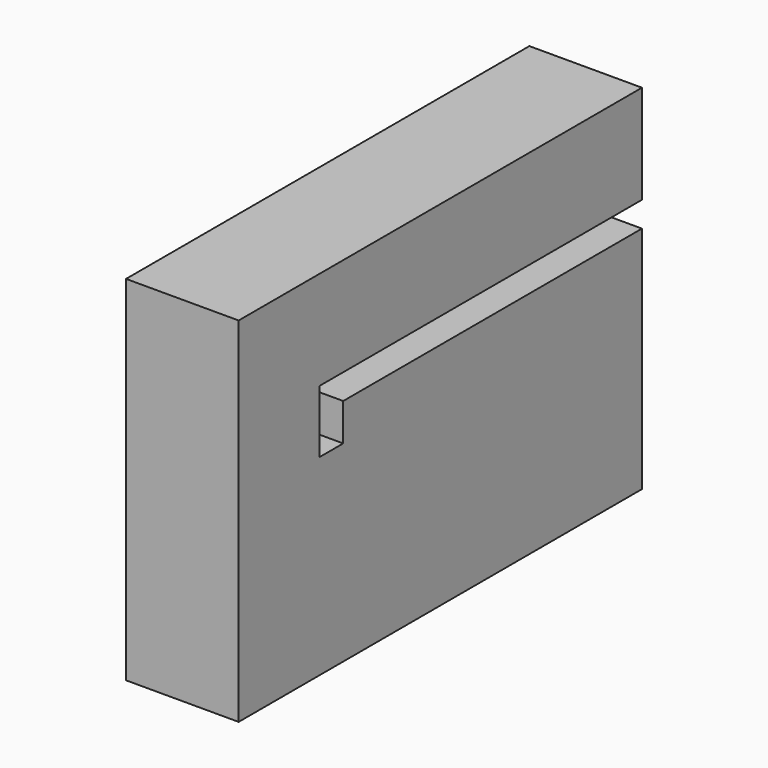
from build123d import *

# Parameters (mm, degrees)
F0_W     = 22.8618904948
F0_H     = 16.2426307797
F0_W_2   = 84.2182151973
F0_H_2   = 8.4221046418
F0_W_3   = 90.8361300826
F0_H_3   = 6.0157887638
F1_DEPTH = 25.4


with BuildPart() as f1:
    # F0 (on Right) → F1 (new body)
    with BuildSketch(Plane.YZ):
        Polygon((-56.8490102887, 41.8097376823), (-56.8490102887, 21.6568410397), (-33.9871197939, 21.6568410397), (-33.9871197939, 35.7939489186), (-33.9871197939, 41.8097376823), align=None)
        Polygon((-33.9871197939, 21.6568410397), (-56.8490102887, 21.6568410397), (-56.8490102887, -21.6568410397), (56.8490102887, -21.6568410397), (56.8490102887, -11.5302624181), (56.8490102887, 21.6568410397), (-27.3692049086, 21.6568410397), align=None)
        with Locations((-45.4180650413, 49.9310530722)):
            Rectangle(F0_W, F0_H)
        with Locations((14.7399026901, 25.8678933606)):
            Rectangle(F0_W_2, F0_H_2)
        with Locations((11.4309452474, 38.8018433005)):
            Rectangle(F0_W_3, F0_H_3)
        Polygon((-33.9871197939, 58.0523684621), (-33.9871197939, 41.8097376823), (56.8490102887, 41.8097376823), (56.8588115275, 41.8097376823), (56.8588115275, 58.0523684621), align=None)
    extrude(amount=F1_DEPTH)


solid = f1.part
